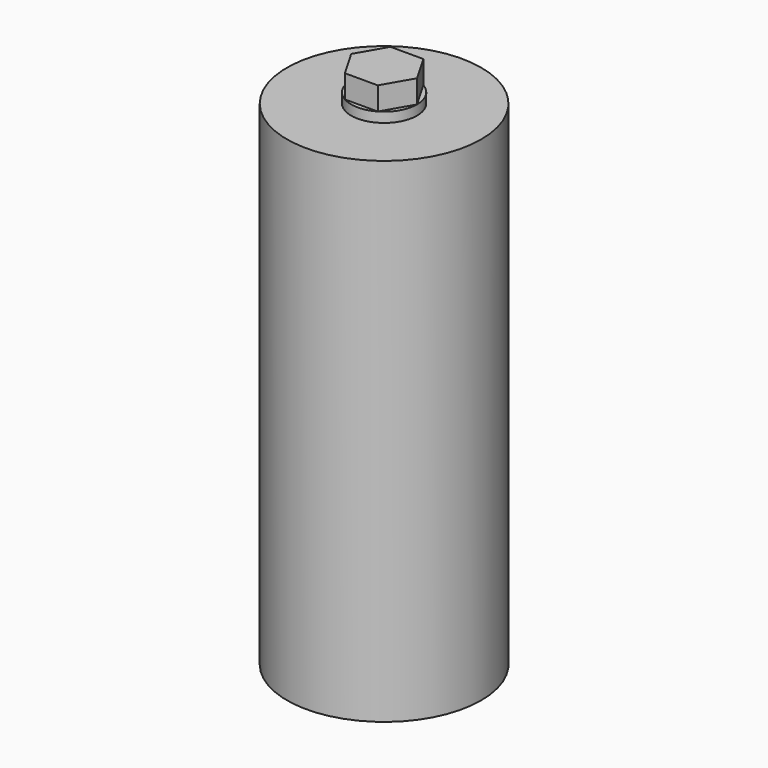
from build123d import *

# Parameters (mm, degrees)
CYLINDER_R        = 29.5
CYLINDER_DEPTH    = 150
BOX_W             = 35
BOX_H             = 50
BOX_DEPTH         = 132
CYLINDER001_R     = 10
CYLINDER001_DEPTH = 3
PRISM_DEPTH       = 7


with BuildPart() as part:
    # Cylinder → Cylinder (join)
    with BuildSketch(Plane.XY):
        Circle(CYLINDER_R)
    extrude(amount=CYLINDER_DEPTH)

    # Box → Box (cut)
    with BuildSketch(Plane(origin=(-17.5, -17.5, 10), x_dir=(1, 0, 0), z_dir=(0, 0, 1))):
        with Locations((17.5, 25)):
            Rectangle(BOX_W, BOX_H)
    extrude(amount=BOX_DEPTH, mode=Mode.SUBTRACT)

    # Cylinder001 → Cylinder001 (join)
    with BuildSketch(Plane.XY.offset(150)):
        Circle(CYLINDER001_R)
    extrude(amount=CYLINDER001_DEPTH)

    # Prism → Prism (join)
    with BuildSketch(Plane.XY.offset(153)):
        Polygon((10, 0), (5, 8.660254), (-5, 8.660254), (-10, 0), (-5, -8.660254), (5, -8.660254), align=None)
    extrude(amount=PRISM_DEPTH)


solid = part.part
